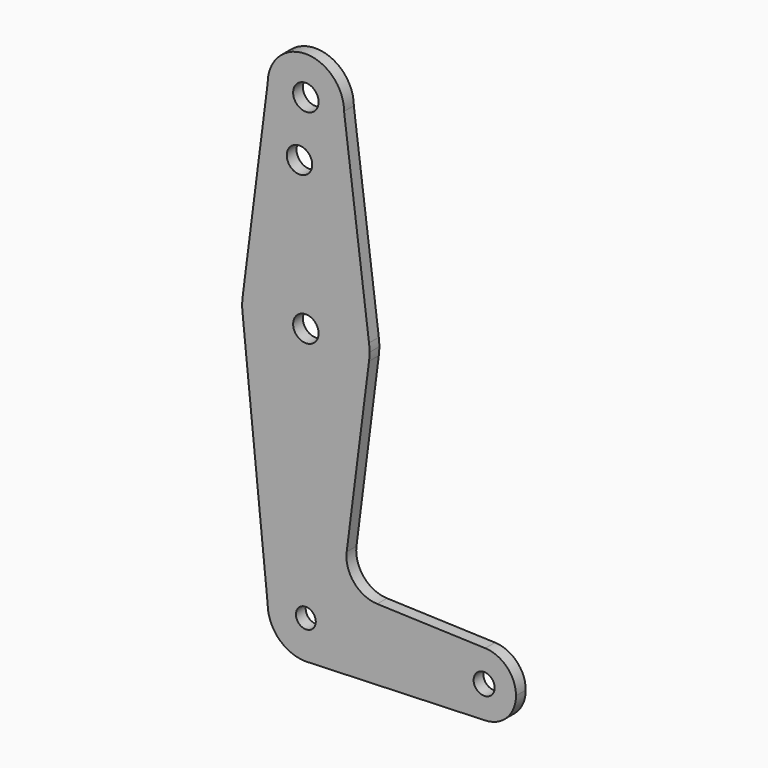
from build123d import *

# Parameters (mm, degrees)
F0_R     = 2.475107
F0_R_2   = 3.175
F0_R_3   = 2.622066
F1_DEPTH = 3.048


with BuildPart() as f1:
    # F0 (on Front) → F1 (new body)
    with BuildSketch(Plane.XZ):
        with BuildLine():
            ThreePointArc((0.677344, -9.500886), (6.970557, -6.491299), (9.525, 0))
            ThreePointArc((9.525, 0), (0, 9.525), (-9.525, 0))
            ThreePointArc((-9.525, 0), (-6.735192, -6.735192), (0, -9.525))
            Line((0, -9.525), (0.677344, -9.500886))
        make_face()
        Circle(F0_R, mode=Mode.SUBTRACT)
        with BuildLine():
            ThreePointArc((-9.525, 0), (0, 9.525), (9.525, 0))
            ThreePointArc((9.525, 0), (6.970557, -6.491299), (0.677344, -9.500886))
            Line((0.677344, -9.500886), (44.732405, -7.932475))
            ThreePointArc((44.732405, -7.932475), (36.5125, 0), (44.732405, 7.932475))
            Line((44.732405, 7.932475), (17.784333, 8.891857))
            ThreePointArc((17.784333, 8.891857), (12.008013, 11.68998), (10.180863, 17.842775))
            Line((10.180863, 17.842775), (15.747457, 61.491711))
            ThreePointArc((15.747457, 61.491711), (0, 47.625), (-15.747457, 61.491711))
            Line((-15.747457, 61.491711), (-9.525, 0))
        make_face()
        with BuildLine():
            ThreePointArc((0, -9.525), (0.338886, -9.51897), (0.677344, -9.500886))
            Line((0.677344, -9.500886), (0, -9.525))
        make_face()
        with BuildLine():
            ThreePointArc((-15.747457, 65.508289), (-15.875, 63.5), (-15.747457, 61.491711))
            ThreePointArc((-15.747457, 61.491711), (0, 47.625), (15.747457, 61.491711))
            ThreePointArc((15.747457, 61.491711), (15.843082, 62.493832), (15.875, 63.5))
            ThreePointArc((15.875, 63.5), (15.843082, 64.506168), (15.747457, 65.508289))
            ThreePointArc((15.747457, 65.508289), (0, 79.375), (-15.747457, 65.508289))
        make_face()
        with Locations((0, 63.5)):
            Circle(F0_R_2, mode=Mode.SUBTRACT)
        with BuildLine():
            ThreePointArc((44.732405, 7.932475), (36.5125, 0), (44.732405, -7.932475))
            ThreePointArc((44.732405, -7.932475), (50.161633, -5.51191), (52.3875, 0))
            ThreePointArc((52.3875, 0), (50.161633, 5.51191), (44.732405, 7.932475))
        make_face()
        with Locations((44.45, 0)):
            Circle(F0_R_3, mode=Mode.SUBTRACT)
        with BuildLine():
            Line((-9.525, 114.3), (-15.747457, 65.508289))
            ThreePointArc((-15.747457, 65.508289), (0, 79.375), (15.747457, 65.508289))
            Line((15.747457, 65.508289), (9.525, 114.3))
            ThreePointArc((9.525, 114.3), (0, 104.775), (-9.525, 114.3))
        make_face()
        with Locations((-1.5875, 100.0252)):
            Circle(F0_R_2, mode=Mode.SUBTRACT)
        with BuildLine():
            ThreePointArc((9.525, 114.3), (0, 123.825), (-9.525, 114.3))
            ThreePointArc((-9.525, 114.3), (0, 104.775), (9.525, 114.3))
        make_face()
        with Locations((0, 114.3)):
            Circle(F0_R_2, mode=Mode.SUBTRACT)
    extrude(amount=-F1_DEPTH)


solid = f1.part
